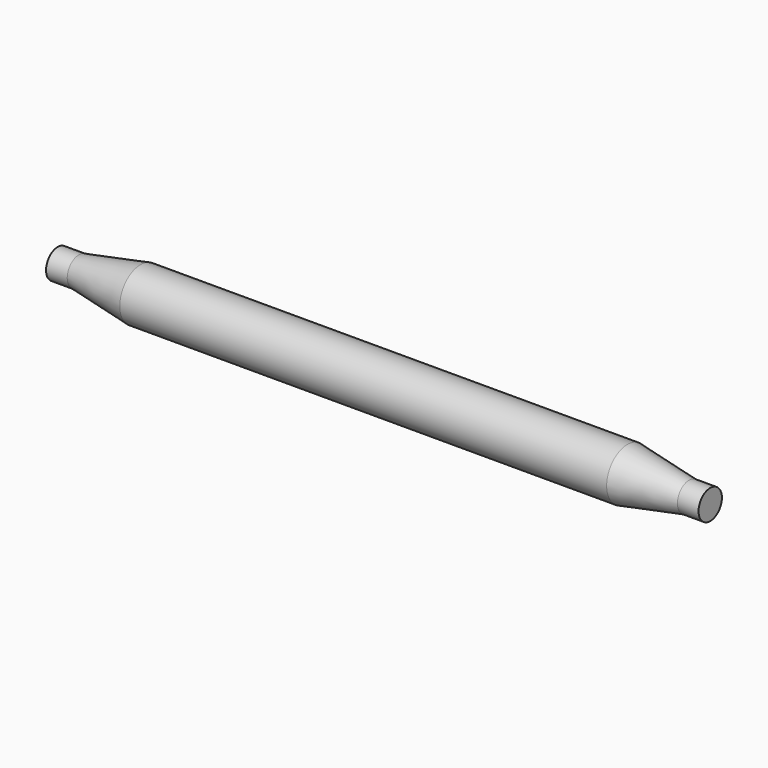
from build123d import *

# Parameters (mm, degrees)
F0_R       = 50.8
F1_DEPTH   = 476.25
F3_R       = 28.575
F4_DEPTH   = 41.402
F1_FACE_R  = 50.8
F4_FACE_R  = 28.575
F1_FACE1_R = 50.8
F5_FACE_R  = 28.575


with BuildPart() as f1:
    # F0 (on Right) → F1 (new body, symmetric)
    with BuildSketch(Plane.YZ):
        Circle(F0_R)
    extrude(amount=F1_DEPTH, both=True)



with BuildPart() as f4:
    # F3 (on offset) → F4 (new body)
    with BuildSketch(Plane.YZ.offset(638.302)):
        Circle(F3_R)
    extrude(amount=-F4_DEPTH)


with BuildPart() as f5_1:
    # F5: instance of F4
    add(f4.part.mirror(Plane.YZ))


with BuildPart() as f1_1:
    add(f1.part)

    add(f4.part)  # F6 merges F4
    # F1_face (on face) → F6 section 0
    with BuildSketch(Plane.YZ.offset(476.25)):
        Circle(F1_FACE_R)
    # F4_face (on face) → F6 section 1
    with BuildSketch(Plane(origin=(596.9, 0, 0), x_dir=(0, 1, 0), z_dir=(-1, 0, 0))):
        Circle(F4_FACE_R)
    loft()


    add(f5_1.part)  # F7 merges F5_1
    # F1_face1 (on face) → F7 section 0
    with BuildSketch(Plane(origin=(-476.25, 0, 0), x_dir=(0, 1, 0), z_dir=(-1, 0, 0))):
        Circle(F1_FACE1_R)
    # F5_face (on face) → F7 section 1
    with BuildSketch(Plane.YZ.offset(-596.9)):
        Circle(F5_FACE_R)
    loft()


solid = f1_1.part
